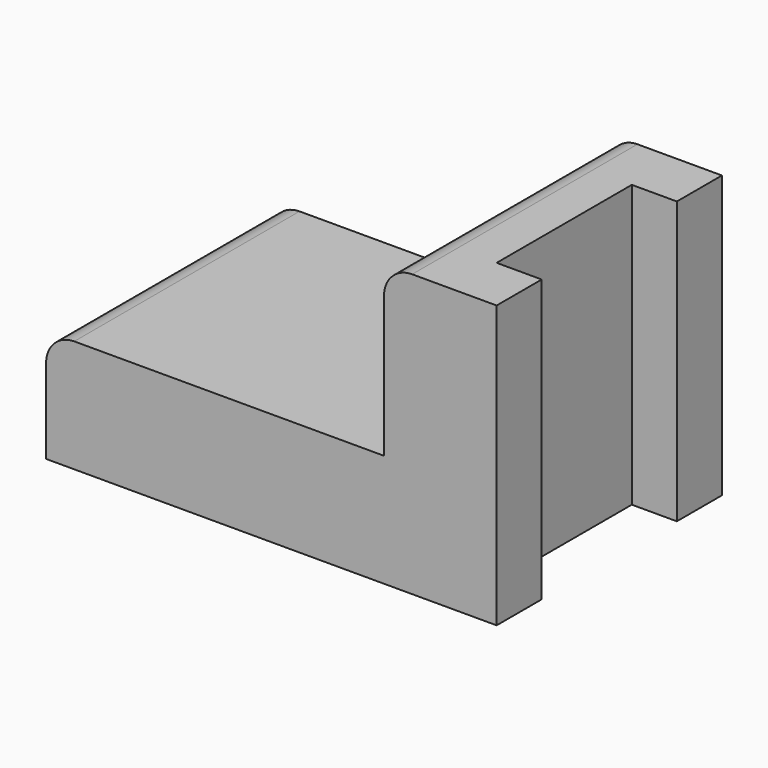
from build123d import *

# Parameters (mm, degrees)
F0_W     = 60
F0_H     = 50
F1_DEPTH = 20
F2_DEPTH = 50
F3_R     = 5


with BuildPart() as f1:
    # F0 (on Top) → F1 (new body)
    with BuildSketch(Plane.XY):
        with Locations((-30, 32.220189)):
            Rectangle(F0_W, F0_H)
    extrude(amount=F1_DEPTH)

    # F0 (on Top) → F2 (join)
    with BuildSketch(Plane.XY):
        Polygon((0, 57.220189), (0, 7.220189), (20, 7.220189), (20, 17.220189), (12, 17.220189), (12, 47.220189), (20, 47.220189), (20, 57.220189), align=None)
    extrude(amount=F2_DEPTH)

    # F3
    f3_edges = [f1.edges().sort_by_distance(p)[0] for p in [
        (0, 32.220189, 50),
        (-60, 32.220189, 20),
    ]]
    fillet(f3_edges, radius=F3_R)


solid = f1.part
